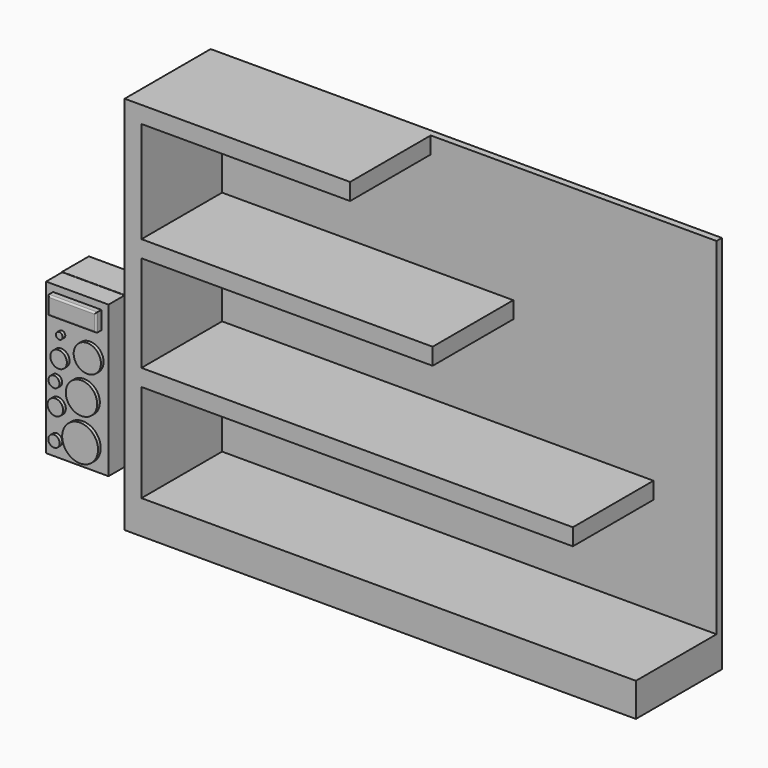
from build123d import *

# Parameters (mm, degrees)
F0_R     = 2.0269538975
F1_DEPTH = 3.5
F0_R_2   = 0.5
F0_R_3   = 1.228518784
F0_R_4   = 2.3345460216
F0_R_5   = 0.8190125227
F0_R_6   = 1.1582592759
F0_R_7   = 2.6696554539
F0_R_8   = 0.8442192367
F0_W     = 7.1830786765
F0_H     = 2.6784352958
F2_DEPTH = 4
F0_W_2   = 9.2929721967
F0_H_2   = 22.4840222485
F3_DEPTH = 3
F0_W_3   = 43.3342937214
F0_H_3   = 2.5
F0_W_4   = 31.0516838037
F0_W_5   = 64.2038567705
F4_DEPTH = 15
F5_W     = 76.0869590251
F5_H     = 56.5217405497
F6_DEPTH = 1
F7_R     = 0.25
F8_W     = 9.2879496515
F8_H     = 22.5613792427
F9_DEPTH = 5


with BuildPart() as f1:
    # F0 (on Front) → F1 (new body)
    with BuildSketch(Plane.XZ):
        with Locations((-38.6387519538, 18.4917859733)):
            Circle(F0_R)
    extrude(amount=F1_DEPTH)



with BuildPart() as f1b:
    # F0 (on Front) → F1, piece 2 (new body)
    with BuildSketch(Plane.XZ):
        with Locations((-42.8166687813, 20.0982914169)):
            Circle(F0_R_2)
    extrude(amount=F1_DEPTH)


with BuildPart() as f1c:
    # F0 (on Front) → F1, piece 3 (new body)
    with BuildSketch(Plane.XZ):
        with Locations((-42.9098382592, 16.9715695083)):
            Circle(F0_R_3)
    extrude(amount=F1_DEPTH)


with BuildPart() as f1d:
    # F0 (on Front) → F1, piece 4 (new body)
    with BuildSketch(Plane.XZ):
        with Locations((-39.5060256124, 13.0007341504)):
            Circle(F0_R_4)
    extrude(amount=F1_DEPTH)


with BuildPart() as f1e:
    # F0 (on Front) → F1, piece 5 (new body)
    with BuildSketch(Plane.XZ):
        with Locations((-43.6010956764, 13.8197485358)):
            Circle(F0_R_5)
    extrude(amount=F1_DEPTH)


with BuildPart() as f1f:
    # F0 (on Front) → F1, piece 6 (new body)
    with BuildSketch(Plane.XZ):
        with Locations((-43.3963425457, 10.5436937883)):
            Circle(F0_R_6)
    extrude(amount=F1_DEPTH)


with BuildPart() as f1g:
    # F0 (on Front) → F1, piece 7 (new body)
    with BuildSketch(Plane.XZ):
        with Locations((-39.710778743, 7.0628863759)):
            Circle(F0_R_7)
    extrude(amount=F1_DEPTH)


with BuildPart() as f1h:
    # F0 (on Front) → F1, piece 8 (new body)
    with BuildSketch(Plane.XZ):
        with Locations((-43.6010956764, 6.0391197912)):
            Circle(F0_R_8)
    extrude(amount=F1_DEPTH)


with BuildPart() as f2:
    # F0 (on Front) → F2 (new body)
    with BuildSketch(Plane.XZ):
        with Locations((-40.5303072184, 23.8736141473)):
            Rectangle(F0_W, F0_H)
    extrude(amount=F2_DEPTH)


with BuildPart() as f1_1:
    add(f1.part)

    add(f1b.part)  # F3 merges F1b

    add(f1c.part)  # F3 merges F1c

    add(f1d.part)  # F3 merges F1d

    add(f1e.part)  # F3 merges F1e

    add(f1f.part)  # F3 merges F1f

    add(f1g.part)  # F3 merges F1g

    add(f1h.part)  # F3 merges F1h

    add(f2.part)  # F3 merges F2
    # F0 (on Front) → F3 (join)
    with BuildSketch(Plane.XZ):
        with Locations((-40.5266187541, 14.9962106068)):
            Rectangle(F0_W_2, F0_H_2)
        with Locations((-43.6010956764, 6.0391197912)):
            Circle(F0_R_8, mode=Mode.SUBTRACT)
        with Locations((-39.710778743, 7.0628863759)):
            Circle(F0_R_7, mode=Mode.SUBTRACT)
        with Locations((-43.3963425457, 10.5436937883)):
            Circle(F0_R_6, mode=Mode.SUBTRACT)
        with Locations((-39.5060256124, 13.0007341504)):
            Circle(F0_R_4, mode=Mode.SUBTRACT)
        with Locations((-43.6010956764, 13.8197485358)):
            Circle(F0_R_5, mode=Mode.SUBTRACT)
        with Locations((-42.9098382592, 16.9715695083)):
            Circle(F0_R_3, mode=Mode.SUBTRACT)
        with Locations((-42.8166687813, 20.0982914169)):
            Circle(F0_R_2, mode=Mode.SUBTRACT)
        with Locations((-38.6387519538, 18.4917859733)):
            Circle(F0_R, mode=Mode.SUBTRACT)
        with Locations((-40.5303072184, 23.8736141473)):
            Rectangle(F0_W, F0_H, mode=Mode.SUBTRACT)
    extrude(amount=F3_DEPTH)

    # F0 (on Front) → F4 (join)
    with BuildSketch(Plane.XZ):
        with Locations((-11.712985795, 33.1576881444)):
            Rectangle(F0_W_3, F0_H_3)
        with Locations((-17.8542907539, 50.7490920059)):
            Rectangle(F0_W_4, F0_H_3)
        Polygon((-35.8801326557, 3.7541994825), (-35.8801326557, 0.4773514562), (-33.3801326557, 0.4773514562), (-33.3801326557, 15.0425690249), (-33.3801326557, 17.5425690249), (-33.3801326557, 31.9076881444), (-33.3801326557, 34.4076881444), (-33.3801326557, 49.4990920059), (-33.3801326557, 51.9990920059), (-35.8801326557, 51.9990920059), (-35.8801326557, 26.238221731), align=None)
        with Locations((-1.2782042705, 16.2925690249)):
            Rectangle(F0_W_5, F0_H_3)
        Polygon((-33.3801326557, 0.4773514562), (-35.8801326557, 0.4773514562), (-35.8801326557, -4.5226485438), (40.2068263694, -4.5226485438), (40.2068263694, 0.4773514562), align=None)
    extrude(amount=-F4_DEPTH)

    # F5 (on face) → F6 (join)
    with BuildSketch(Plane(origin=(0, 15, 0), x_dir=(-1, 0, 0), z_dir=(0, 1, 0))):
        with Locations((-2.1633468568, 23.738221731)):
            Rectangle(F5_W, F5_H)
    extrude(amount=F6_DEPTH)

    # F7
    f7_edges = [f1_1.edges().sort_by_distance(p)[0] for p in [
        (-40.530307, -4, 22.534396),
        (-40.530307, -4, 25.212832),
        (-36.938768, -4, 23.873614),
        (-44.121847, -4, 23.873614),
    ]]
    fillet(f7_edges, radius=F7_R)

    # F8 (on face) → F9 (join)
    with BuildSketch(Plane.XZ):
        with Locations((-40.561305359, 14.9959118571)):
            Rectangle(F8_W, F8_H)
    extrude(amount=-F9_DEPTH)


solid = f1_1.part
